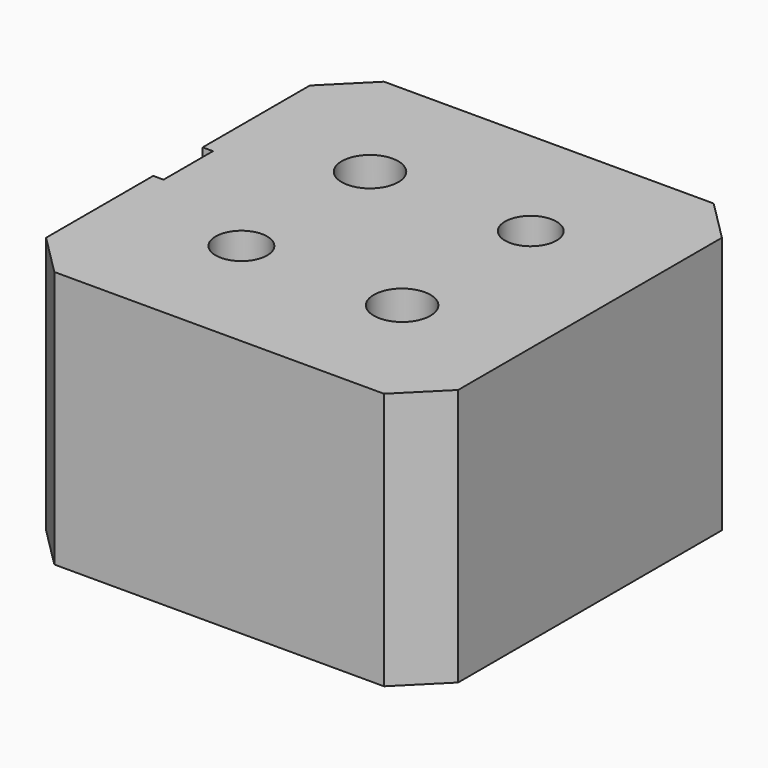
from build123d import *

# Parameters (mm, degrees)
F1_DEPTH       = 25
F2_SIZE2       = 4
F2_SIZE        = 4
F3_D           = 5.5
F3_CBORE_D     = 9.75
F3_CBORE_DEPTH = 5
F4_D           = 5.5
F4_CBORE_D     = 9.75
F4_CBORE_DEPTH = 5
F5_D           = 5
F6_D           = 5
F9_D           = 3.3
F9_DEPTH       = 7
F9_TIP         = 0.9914200214
F10_D          = 2.3
F10_DEPTH      = 3
F10_TIP        = 0.6909897119


with BuildPart() as f1:
    # F0 (on Top) → F1 (new body)
    with BuildSketch(Plane.XY):
        Polygon((34.59903365, 12.0471221954), (-5.40096635, 12.0471221954), (-5.40096635, -4.9528778046), (-4.40096635, -4.9528778046), (-4.40096635, -10.9528778046), (-5.40096635, -10.9528778046), (-5.40096635, -27.9528778046), (34.59903365, -27.9528778046), align=None)
    extrude(amount=F1_DEPTH)

    # F2
    f2_edges = [f1.edges().sort_by_distance(p)[0] for p in [
        (-5.400966, 12.047122, 12.5),
        (-5.400966, -27.952878, 12.5),
        (34.599034, -27.952878, 12.5),
        (34.599034, 12.047122, 12.5),
    ]]
    chamfer(f2_edges, length=F2_SIZE, length2=F2_SIZE2)

    # F3 (through all)
    with Locations(Plane(origin=(0, 0, 0), x_dir=(1, 0, 0), z_dir=(0, 0, -1))):
        with Locations((6.99903365, 0.1528778046)):
            CounterBoreHole(F3_D / 2, F3_CBORE_D / 2, F3_CBORE_DEPTH)

    # F4 (through all)
    with Locations(Plane(origin=(0, 0, 0), x_dir=(1, 0, 0), z_dir=(0, 0, -1))):
        with Locations((22.59903365, 15.7528778046)):
            CounterBoreHole(F4_D / 2, F4_CBORE_D / 2, F4_CBORE_DEPTH)

    # F5 (through all)
    with Locations(Plane(origin=(0, 0, 0), x_dir=(1, 0, 0), z_dir=(0, 0, -1))):
        with Locations((22.59903365, 0.1528778046)):
            Hole(F5_D / 2)

    # F6 (through all)
    with Locations(Plane(origin=(0, 0, 0), x_dir=(1, 0, 0), z_dir=(0, 0, -1))):
        with Locations((6.99903365, 15.7528778046)):
            Hole(F6_D / 2)

    # F9
    with Locations(Plane(origin=(-5.40096635, 0, 0), x_dir=(0, -1, 0), z_dir=(-1, 0, 0))):
        with Locations((-2.5471221954, 4.8), (18.4528778046, 4.8)):
            Hole(F9_D / 2, depth=F9_DEPTH)
            with Locations((0, 0, -(F9_DEPTH + F9_TIP / 2))):  # 118° drill point
                Cone(0, F9_D / 2, F9_TIP, mode=Mode.SUBTRACT)

    # F10
    with Locations(Plane(origin=(-4.40096635, 0, 0), x_dir=(0, -1, 0), z_dir=(-1, 0, 0))):
        with Locations((7.9528778046, 4.8)):
            Hole(F10_D / 2, depth=F10_DEPTH)
            with Locations((0, 0, -(F10_DEPTH + F10_TIP / 2))):  # 118° drill point
                Cone(0, F10_D / 2, F10_TIP, mode=Mode.SUBTRACT)


solid = f1.part
